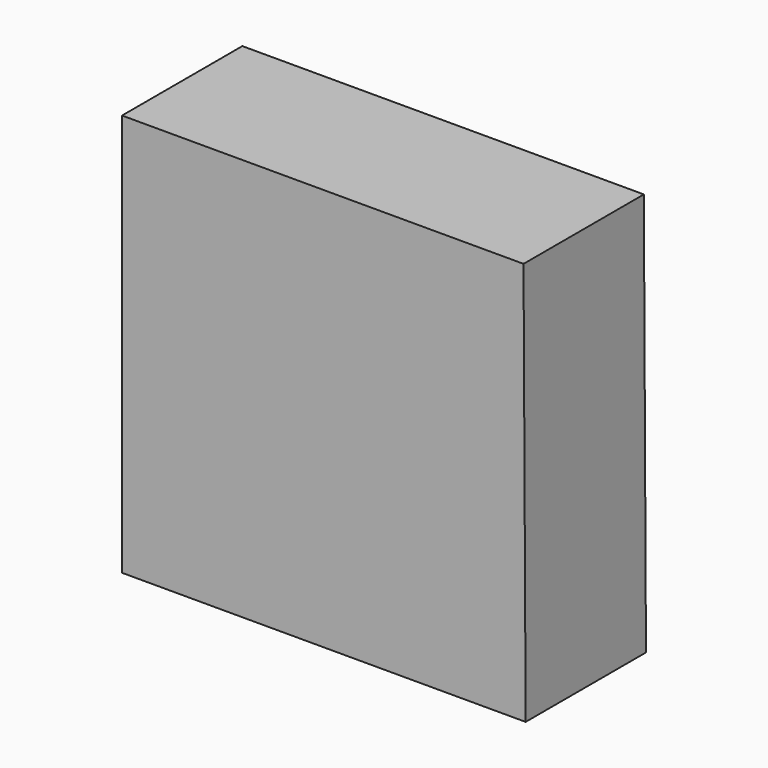
from build123d import *

# Parameters (mm, degrees)
F1_DEPTH = 20
F2_DEPTH = 10


with BuildPart() as f1:
    # F0 (on Front) → F1 (new body)
    with BuildSketch(Plane.XZ):
        Polygon((53.3970333636, 27.9024280608), (0, 27.9024280608), (0, -25.63624084), (53.6803044379, -25.63624084), align=None)
    extrude(amount=F1_DEPTH)

    # F0 (on Front) + F1_face (on face) → F2 (join)
    with BuildSketch(Plane.XZ):
        Polygon((53.3970333636, 27.9024280608), (0, 27.9024280608), (0, -25.63624084), (53.6803044379, -25.63624084), align=None)
    with BuildSketch(Plane(origin=(26.7693968994, 0, 1.1094876875), x_dir=(1, 0, 0), z_dir=(0, 1, 0))):
        Polygon((-26.7693968994, -26.7929403732), (26.6276364642, -26.7929403732), (26.9109075385, 26.7457285275), (-26.7693968994, 26.7457285275), align=None)
    extrude(amount=F2_DEPTH, dir=(0, -1, 0))


solid = f1.part
